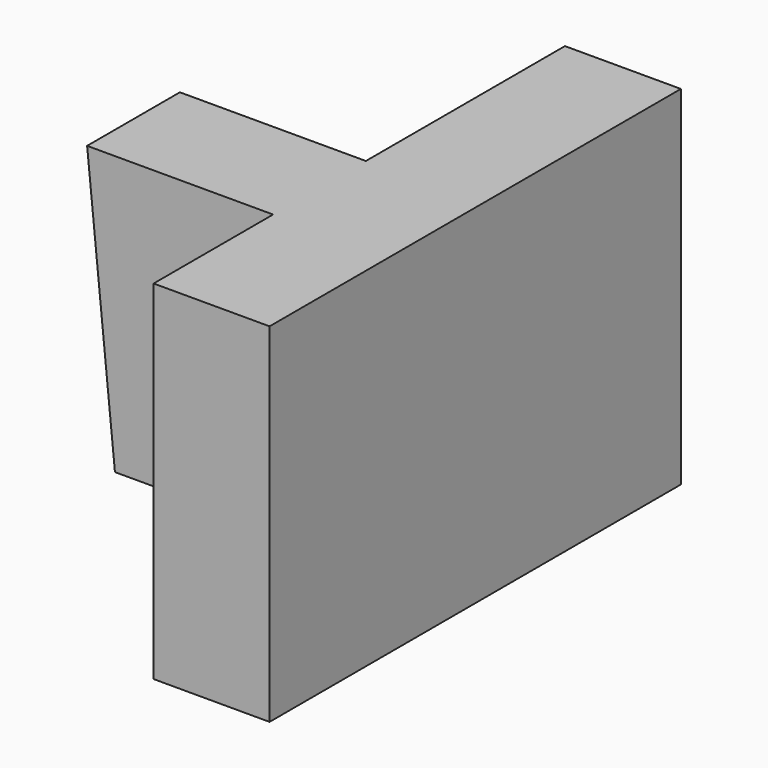
from build123d import *

# Parameters (mm, degrees)
F1_DEPTH = 25.4
F2_W     = 112.623382
F2_H     = 76.285984
F3_DEPTH = 25.4


with BuildPart() as f1:
    # F0 (on Front) → F1 (new body)
    with BuildSketch(Plane.XZ):
        Polygon((25.165346, 45.929581), (-40.738519, 45.929581), (-34.644667, -15.008928), (25.165346, -15.008928), align=None)
    extrude(amount=F1_DEPTH)

    # F2 (on Right) → F3 (join)
    with BuildSketch(Plane.YZ):
        with Locations((-1.805587, 7.786589)):
            Rectangle(F2_W, F2_H)
    extrude(amount=F3_DEPTH)


solid = f1.part
